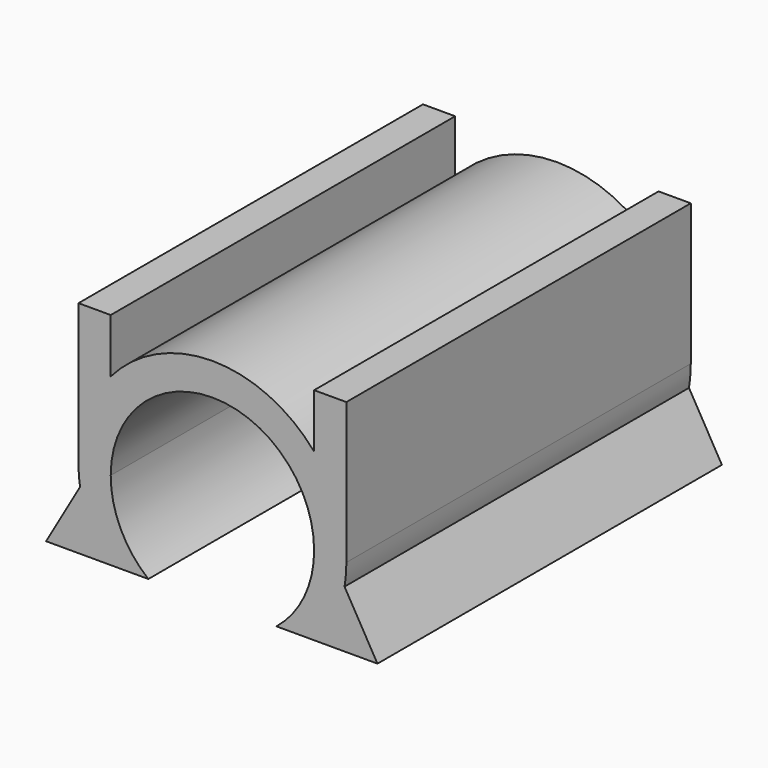
from build123d import *

# Parameters (mm, degrees)
F1_DEPTH = 31.75


with BuildPart() as f1:
    # F0 (on Front) → F1 (new body)
    with BuildSketch(Plane.XZ):
        with BuildLine():
            Line((-24.867260192, 14.0561722352), (-20.5749857529, 14.0561722352))
            ThreePointArc((-20.5749857529, 14.0561722352), (-21.7302586773, 16.117381452), (-22.3627959644, 18.394031523))
            Line((-22.3627959644, 18.394031523), (-24.867260192, 14.0561722352))
        make_face()
        with BuildLine():
            ThreePointArc((-17.3257802935, 14.0561722352), (-19.3712146858, 16.6546470319), (-20.1002728939, 19.8802240735))
            Line((-20.1002728939, 19.8802240735), (-20.1002728939, 22.3128364345))
            Line((-20.1002728939, 22.3128364345), (-22.3627959644, 18.394031523))
            ThreePointArc((-22.3627959644, 18.394031523), (-21.7302586773, 16.117381452), (-20.5749857529, 14.0561722352))
            Line((-20.5749857529, 14.0561722352), (-17.3257802935, 14.0561722352))
        make_face()
        with BuildLine():
            Line((-22.3627959644, 18.394031523), (-20.1002728939, 22.3128364345))
            Line((-20.1002728939, 22.3128364345), (-20.1002728939, 26.3040566523))
            ThreePointArc((-20.1002728939, 26.3040566523), (-21.8625114192, 23.3046309565), (-22.4752728939, 19.8802240735))
            ThreePointArc((-22.4752728939, 19.8802240735), (-22.4471135121, 19.1350027378), (-22.3627959644, 18.394031523))
        make_face()
        with BuildLine():
            ThreePointArc((-22.4752728939, 19.8802240735), (-21.8625114192, 23.3046309565), (-20.1002728939, 26.3040566523))
            Line((-20.1002728939, 26.3040566523), (-20.1002728939, 30.2920383944))
            Line((-20.1002728939, 30.2920383944), (-22.4752728939, 30.2920383944))
            Line((-22.4752728939, 30.2920383944), (-22.4752728939, 19.8802240735))
        make_face()
        with BuildLine():
            ThreePointArc((-20.1002728939, 19.8802240735), (-12.6002728939, 27.3802240735), (-5.1002728939, 19.8802240735))
            Line((-5.1002728939, 19.8802240735), (-5.1002728939, 22.1484367352))
            Line((-5.1002728939, 22.1484367352), (-5.1002728939, 26.3040566523))
            ThreePointArc((-5.1002728939, 26.3040566523), (-12.6002728939, 29.7552240735), (-20.1002728939, 26.3040566523))
            Line((-20.1002728939, 26.3040566523), (-20.1002728939, 22.3128364345))
            Line((-20.1002728939, 22.3128364345), (-20.1002728939, 19.8802240735))
        make_face()
        with BuildLine():
            Line((-5.1002728939, 22.1484367352), (-5.1002728939, 19.8802240735))
            ThreePointArc((-5.1002728939, 19.8802240735), (-5.8293311021, 16.6546470319), (-7.8747654943, 14.0561722352))
            Line((-7.8747654943, 14.0561722352), (-4.6255600349, 14.0561722352))
            ThreePointArc((-4.6255600349, 14.0561722352), (-3.4953535559, 16.057127312), (-2.8582453868, 18.265131181))
            Line((-2.8582453868, 18.265131181), (-5.1002728939, 22.1484367352))
        make_face()
        with BuildLine():
            Line((-5.1002728939, 26.3040566523), (-5.1002728939, 22.1484367352))
            Line((-5.1002728939, 22.1484367352), (-2.8582453868, 18.265131181))
            ThreePointArc((-2.8582453868, 18.265131181), (-2.758572161, 19.0699453043), (-2.7252728939, 19.8802240735))
            ThreePointArc((-2.7252728939, 19.8802240735), (-3.3380343686, 23.3046309565), (-5.1002728939, 26.3040566523))
        make_face()
        with BuildLine():
            ThreePointArc((-2.8582453868, 18.265131181), (-3.4953535559, 16.057127312), (-4.6255600349, 14.0561722352))
            Line((-4.6255600349, 14.0561722352), (-0.4282018064, 14.0561722352))
            Line((-0.4282018064, 14.0561722352), (-2.8582453868, 18.265131181))
        make_face()
        with BuildLine():
            Line((-5.1002728939, 30.2920383944), (-5.1002728939, 26.3040566523))
            ThreePointArc((-5.1002728939, 26.3040566523), (-3.3380343686, 23.3046309565), (-2.7252728939, 19.8802240735))
            Line((-2.7252728939, 19.8802240735), (-2.7252728939, 30.2920383944))
            Line((-2.7252728939, 30.2920383944), (-5.1002728939, 30.2920383944))
        make_face()
    extrude(amount=F1_DEPTH)


solid = f1.part
